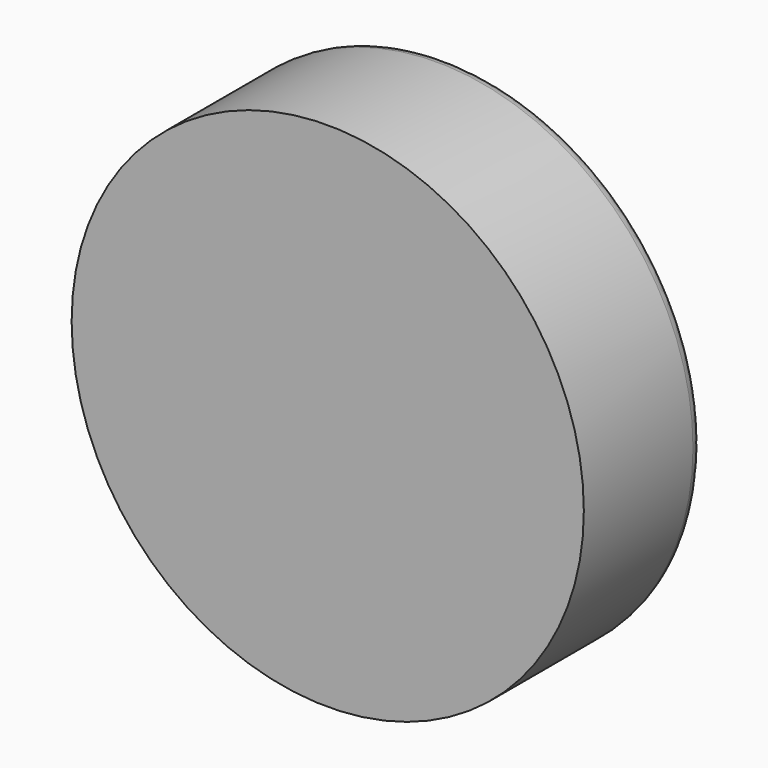
from build123d import *

# Parameters (mm, degrees)
F2_R = 2.61643


with BuildPart() as f1:
    # F0 (on Top) → F1 (revolve)
    with BuildSketch(Plane.XY):
        Polygon((-55.398632, 0), (0, 0), (0, 38.622338), (-13.734436, 20.002501), (-16.695562, 20.177716), (-44.890404, 21.84605), (-55.398632, 38.622338), align=None)
    revolve(axis=Axis((0, 19.311169, 0), (0, 1, 0)))

    # F2
    f2_edges = [f1.edges().sort_by_distance(p)[0] for p in [
        (55.398632, 38.622338, 0),
    ]]
    fillet(f2_edges, radius=F2_R)


solid = f1.part
